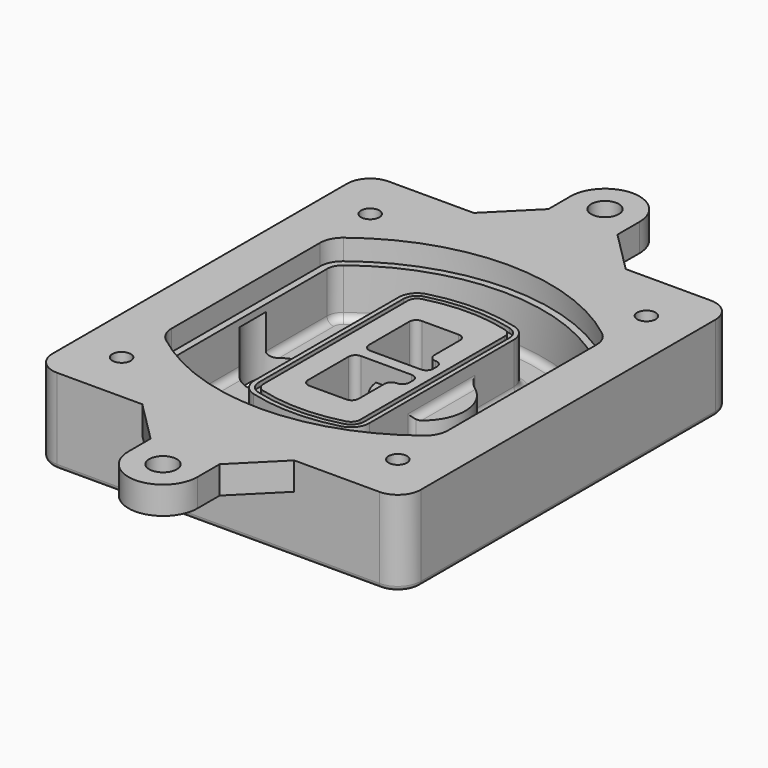
from build123d import *

# Parameters (mm, degrees)
F0_R      = 4
F1_DEPTH  = 25
F2_DEPTH  = 3
F3_DEPTH  = 18
F5_DEPTH  = 21
F6_DEPTH  = 2
F8_DEPTH  = 20
F9_DEPTH  = 16
F10_DEPTH = 25
F7_R      = 6
F7_R_2    = 4
F11_DEPTH = 6
F13_DEPTH = 9
F14_R     = 3
F15_R     = 2
F16_R     = 6
F16_R_2   = 4
F17_DEPTH = 12


with BuildPart() as f1:
    # F0 (on Top) → F1 (new body)
    with BuildSketch(Plane.XY):
        with BuildLine():
            ThreePointArc((-80, -80), (-77.0710678119, -87.0710678119), (-70, -90))
            Line((-70, -90), (70, -90))
            ThreePointArc((70, -90), (77.0710678119, -87.0710678119), (80, -80))
            Line((80, -80), (80, 80))
            ThreePointArc((80, 80), (77.0710678119, 87.0710678119), (70, 90))
            Line((70, 90), (-70, 90))
            ThreePointArc((-70, 90), (-77.0710678119, 87.0710678119), (-80, 80))
            Line((-80, 80), (-80, -80))
        make_face()
        with Locations((-60, -67.5)):
            Circle(F0_R, mode=Mode.SUBTRACT)
        with Locations((60, -67.5)):
            Circle(F0_R, mode=Mode.SUBTRACT)
        with Locations((-60, 67.5)):
            Circle(F0_R, mode=Mode.SUBTRACT)
        with BuildLine():
            ThreePointArc((-64, 40.2934422872), (-62.5820384798, 46.4328484224), (-58.6153846154, 51.3286200352))
            ThreePointArc((-58.6153846154, 51.3286200352), (0, 71.5), (58.6153846154, 51.3286200352))
            ThreePointArc((58.6153846154, 51.3286200352), (62.5820384798, 46.4328484224), (64, 40.2934422872))
            Line((64, 40.2934422872), (64, -40.2934422872))
            ThreePointArc((64, -40.2934422872), (62.5820384798, -46.4328484224), (58.6153846154, -51.3286200352))
            ThreePointArc((58.6153846154, -51.3286200352), (0, -71.5), (-58.6153846154, -51.3286200352))
            ThreePointArc((-58.6153846154, -51.3286200352), (-62.5820384798, -46.4328484224), (-64, -40.2934422872))
            Line((-64, -40.2934422872), (-64, 40.2934422872))
        make_face(mode=Mode.SUBTRACT)
        with Locations((60, 67.5)):
            Circle(F0_R, mode=Mode.SUBTRACT)
        with BuildLine():
            ThreePointArc((58.6153846154, 51.3286200352), (0, 71.5), (-58.6153846154, 51.3286200352))
            ThreePointArc((-58.6153846154, 51.3286200352), (-62.5820384798, 46.4328484224), (-64, 40.2934422872))
            Line((-64, 40.2934422872), (-64, -40.2934422872))
            ThreePointArc((-64, -40.2934422872), (-62.5820384798, -46.4328484224), (-58.6153846154, -51.3286200352))
            ThreePointArc((-58.6153846154, -51.3286200352), (0, -71.5), (58.6153846154, -51.3286200352))
            ThreePointArc((58.6153846154, -51.3286200352), (62.5820384798, -46.4328484224), (64, -40.2934422872))
            Line((64, -40.2934422872), (64, 40.2934422872))
            ThreePointArc((64, 40.2934422872), (62.5820384798, 46.4328484224), (58.6153846154, 51.3286200352))
        make_face()
        with BuildLine():
            Line((-60, -40.2934422872), (-60, 40.2934422872))
            ThreePointArc((-60, 40.2934422872), (-58.9871703427, 44.6787323838), (-56.1538461538, 48.1757121072))
            ThreePointArc((-56.1538461538, 48.1757121072), (0, 67.5), (56.1538461538, 48.1757121072))
            ThreePointArc((56.1538461538, 48.1757121072), (58.9871703427, 44.6787323838), (60, 40.2934422872))
            Line((60, 40.2934422872), (60, -40.2934422872))
            ThreePointArc((60, -40.2934422872), (58.9871703427, -44.6787323838), (56.1538461538, -48.1757121072))
            ThreePointArc((56.1538461538, -48.1757121072), (0, -67.5), (-56.1538461538, -48.1757121072))
            ThreePointArc((-56.1538461538, -48.1757121072), (-58.9871703427, -44.6787323838), (-60, -40.2934422872))
        make_face(mode=Mode.SUBTRACT)
        with BuildLine():
            ThreePointArc((-56.1538461538, 48.1757121072), (-58.9871703427, 44.6787323838), (-60, 40.2934422872))
            Line((-60, 40.2934422872), (-60, -40.2934422872))
            ThreePointArc((-60, -40.2934422872), (-58.9871703427, -44.6787323838), (-56.1538461538, -48.1757121072))
            ThreePointArc((-56.1538461538, -48.1757121072), (0, -67.5), (56.1538461538, -48.1757121072))
            ThreePointArc((56.1538461538, -48.1757121072), (58.9871703427, -44.6787323838), (60, -40.2934422872))
            Line((60, -40.2934422872), (60, 40.2934422872))
            ThreePointArc((60, 40.2934422872), (58.9871703427, 44.6787323838), (56.1538461538, 48.1757121072))
            ThreePointArc((56.1538461538, 48.1757121072), (0, 67.5), (-56.1538461538, 48.1757121072))
        make_face()
        with BuildLine():
            ThreePointArc((54.3076923077, 45.8110311612), (56.2910192399, 43.3631453548), (57, 40.2934422872))
            Line((57, 40.2934422872), (57, -40.2934422872))
            ThreePointArc((57, -40.2934422872), (56.2910192399, -43.3631453548), (54.3076923077, -45.8110311612))
            ThreePointArc((54.3076923077, -45.8110311612), (0, -64.5), (-54.3076923077, -45.8110311612))
            ThreePointArc((-54.3076923077, -45.8110311612), (-56.2910192399, -43.3631453548), (-57, -40.2934422872))
            Line((-57, -40.2934422872), (-57, 40.2934422872))
            ThreePointArc((-57, 40.2934422872), (-56.2910192399, 43.3631453548), (-54.3076923077, 45.8110311612))
            ThreePointArc((-54.3076923077, 45.8110311612), (0, 64.5), (54.3076923077, 45.8110311612))
        make_face(mode=Mode.SUBTRACT)
        with BuildLine():
            Line((57, -40.2934422872), (57, 40.2934422872))
            ThreePointArc((57, 40.2934422872), (56.2910192399, 43.3631453548), (54.3076923077, 45.8110311612))
            ThreePointArc((54.3076923077, 45.8110311612), (0, 64.5), (-54.3076923077, 45.8110311612))
            ThreePointArc((-54.3076923077, 45.8110311612), (-56.2910192399, 43.3631453548), (-57, 40.2934422872))
            Line((-57, 40.2934422872), (-57, -40.2934422872))
            ThreePointArc((-57, -40.2934422872), (-56.2910192399, -43.3631453548), (-54.3076923077, -45.8110311612))
            ThreePointArc((-54.3076923077, -45.8110311612), (0, -64.5), (54.3076923077, -45.8110311612))
            ThreePointArc((54.3076923077, -45.8110311612), (56.2910192399, -43.3631453548), (57, -40.2934422872))
        make_face()
    extrude(amount=-F1_DEPTH)

    # F0 (on Top) → F2 (join)
    with BuildSketch(Plane.XY):
        with BuildLine():
            ThreePointArc((-56.1538461538, 48.1757121072), (-58.9871703427, 44.6787323838), (-60, 40.2934422872))
            Line((-60, 40.2934422872), (-60, -40.2934422872))
            ThreePointArc((-60, -40.2934422872), (-58.9871703427, -44.6787323838), (-56.1538461538, -48.1757121072))
            ThreePointArc((-56.1538461538, -48.1757121072), (0, -67.5), (56.1538461538, -48.1757121072))
            ThreePointArc((56.1538461538, -48.1757121072), (58.9871703427, -44.6787323838), (60, -40.2934422872))
            Line((60, -40.2934422872), (60, 40.2934422872))
            ThreePointArc((60, 40.2934422872), (58.9871703427, 44.6787323838), (56.1538461538, 48.1757121072))
            ThreePointArc((56.1538461538, 48.1757121072), (0, 67.5), (-56.1538461538, 48.1757121072))
        make_face()
        with BuildLine():
            ThreePointArc((54.3076923077, 45.8110311612), (56.2910192399, 43.3631453548), (57, 40.2934422872))
            Line((57, 40.2934422872), (57, -40.2934422872))
            ThreePointArc((57, -40.2934422872), (56.2910192399, -43.3631453548), (54.3076923077, -45.8110311612))
            ThreePointArc((54.3076923077, -45.8110311612), (0, -64.5), (-54.3076923077, -45.8110311612))
            ThreePointArc((-54.3076923077, -45.8110311612), (-56.2910192399, -43.3631453548), (-57, -40.2934422872))
            Line((-57, -40.2934422872), (-57, 40.2934422872))
            ThreePointArc((-57, 40.2934422872), (-56.2910192399, 43.3631453548), (-54.3076923077, 45.8110311612))
            ThreePointArc((-54.3076923077, 45.8110311612), (0, 64.5), (54.3076923077, 45.8110311612))
        make_face(mode=Mode.SUBTRACT)
    extrude(amount=F2_DEPTH)

    # F0 (on Top) → F3 (cut)
    with BuildSketch(Plane.XY):
        with BuildLine():
            Line((57, -40.2934422872), (57, 40.2934422872))
            ThreePointArc((57, 40.2934422872), (56.2910192399, 43.3631453548), (54.3076923077, 45.8110311612))
            ThreePointArc((54.3076923077, 45.8110311612), (0, 64.5), (-54.3076923077, 45.8110311612))
            ThreePointArc((-54.3076923077, 45.8110311612), (-56.2910192399, 43.3631453548), (-57, 40.2934422872))
            Line((-57, 40.2934422872), (-57, -40.2934422872))
            ThreePointArc((-57, -40.2934422872), (-56.2910192399, -43.3631453548), (-54.3076923077, -45.8110311612))
            ThreePointArc((-54.3076923077, -45.8110311612), (0, -64.5), (54.3076923077, -45.8110311612))
            ThreePointArc((54.3076923077, -45.8110311612), (56.2910192399, -43.3631453548), (57, -40.2934422872))
        make_face()
    extrude(amount=-F3_DEPTH, mode=Mode.SUBTRACT)

    # F4 (on face) → F5 (join, through all)
    with BuildSketch(Plane.XY.offset(3)):
        with BuildLine():
            ThreePointArc((-25, -39.2465276821), (-23.3511545998, -44.1109737193), (-19.0842911877, -46.9702398883))
            ThreePointArc((-19.0842911877, -46.9702398883), (0, -49.5), (19.0842911877, -46.9702398883))
            ThreePointArc((19.0842911877, -46.9702398883), (23.3511545998, -44.1109737193), (25, -39.2465276821))
            Line((25, -39.2465276821), (25, 39.2465276821))
            ThreePointArc((25, 39.2465276821), (23.3511545998, 44.1109737193), (19.0842911877, 46.9702398883))
            ThreePointArc((19.0842911877, 46.9702398883), (0, 49.5), (-19.0842911877, 46.9702398883))
            ThreePointArc((-19.0842911877, 46.9702398883), (-23.3511545998, 44.1109737193), (-25, 39.2465276821))
            Line((-25, 39.2465276821), (-25, -39.2465276821))
        make_face()
        with BuildLine():
            ThreePointArc((18.5632183908, 45.0393118368), (21.7633659499, 42.89486221), (23, 39.2465276821))
            Line((23, 39.2465276821), (23, -39.2465276821))
            ThreePointArc((23, -39.2465276821), (21.7633659499, -42.89486221), (18.5632183908, -45.0393118368))
            ThreePointArc((18.5632183908, -45.0393118368), (0, -47.5), (-18.5632183908, -45.0393118368))
            ThreePointArc((-18.5632183908, -45.0393118368), (-21.7633659499, -42.89486221), (-23, -39.2465276821))
            Line((-23, -39.2465276821), (-23, 39.2465276821))
            ThreePointArc((-23, 39.2465276821), (-21.7633659499, 42.89486221), (-18.5632183908, 45.0393118368))
            ThreePointArc((-18.5632183908, 45.0393118368), (0, 47.5), (18.5632183908, 45.0393118368))
        make_face(mode=Mode.SUBTRACT)
        with BuildLine():
            Line((23, -39.2465276821), (23, 39.2465276821))
            ThreePointArc((23, 39.2465276821), (21.7633659499, 42.89486221), (18.5632183908, 45.0393118368))
            ThreePointArc((18.5632183908, 45.0393118368), (0, 47.5), (-18.5632183908, 45.0393118368))
            ThreePointArc((-18.5632183908, 45.0393118368), (-21.7633659499, 42.89486221), (-23, 39.2465276821))
            Line((-23, 39.2465276821), (-23, -39.2465276821))
            ThreePointArc((-23, -39.2465276821), (-21.7633659499, -42.89486221), (-18.5632183908, -45.0393118368))
            ThreePointArc((-18.5632183908, -45.0393118368), (0, -47.5), (18.5632183908, -45.0393118368))
            ThreePointArc((18.5632183908, -45.0393118368), (21.7633659499, -42.89486221), (23, -39.2465276821))
        make_face()
        with BuildLine():
            ThreePointArc((18.0421455939, 43.1083837852), (20.1755772999, 41.6787507007), (21, 39.2465276821))
            Line((21, 39.2465276821), (21, -39.2465276821))
            ThreePointArc((21, -39.2465276821), (20.1755772999, -41.6787507007), (18.0421455939, -43.1083837852))
            ThreePointArc((18.0421455939, -43.1083837852), (0, -45.5), (-18.0421455939, -43.1083837852))
            ThreePointArc((-18.0421455939, -43.1083837852), (-20.1755772999, -41.6787507007), (-21, -39.2465276821))
            Line((-21, -39.2465276821), (-21, 39.2465276821))
            ThreePointArc((-21, 39.2465276821), (-20.1755772999, 41.6787507007), (-18.0421455939, 43.1083837852))
            ThreePointArc((-18.0421455939, 43.1083837852), (0, 45.5), (18.0421455939, 43.1083837852))
        make_face(mode=Mode.SUBTRACT)
        with BuildLine():
            Line((21, -39.2465276821), (21, 39.2465276821))
            ThreePointArc((21, 39.2465276821), (20.1755772999, 41.6787507007), (18.0421455939, 43.1083837852))
            ThreePointArc((18.0421455939, 43.1083837852), (0, 45.5), (-18.0421455939, 43.1083837852))
            ThreePointArc((-18.0421455939, 43.1083837852), (-20.1755772999, 41.6787507007), (-21, 39.2465276821))
            Line((-21, 39.2465276821), (-21, -39.2465276821))
            ThreePointArc((-21, -39.2465276821), (-20.1755772999, -41.6787507007), (-18.0421455939, -43.1083837852))
            ThreePointArc((-18.0421455939, -43.1083837852), (0, -45.5), (18.0421455939, -43.1083837852))
            ThreePointArc((18.0421455939, -43.1083837852), (20.1755772999, -41.6787507007), (21, -39.2465276821))
        make_face()
        with BuildLine():
            Line((-8, -2.5), (14, -2.5))
            ThreePointArc((14, -2.5), (16.1213203436, -3.3786796564), (17, -5.5))
            Line((17, -5.5), (17, -7.5))
            ThreePointArc((17, -7.5), (16.1213203436, -9.6213203436), (14, -10.5))
            ThreePointArc((14, -10.5), (11.8786796564, -11.3786796564), (11, -13.5))
            Line((11, -13.5), (11, -27.5))
            ThreePointArc((11, -27.5), (10.1213203436, -29.6213203436), (8, -30.5))
            Line((8, -30.5), (-8, -30.5))
            ThreePointArc((-8, -30.5), (-10.1213203436, -29.6213203436), (-11, -27.5))
            Line((-11, -27.5), (-11, -5.5))
            ThreePointArc((-11, -5.5), (-10.1213203436, -3.3786796564), (-8, -2.5))
        make_face(mode=Mode.SUBTRACT)
        with BuildLine():
            ThreePointArc((-8, 2.5), (-10.1213203436, 3.3786796564), (-11, 5.5))
            Line((-11, 5.5), (-11, 27.5))
            ThreePointArc((-11, 27.5), (-10.1213203436, 29.6213203436), (-8, 30.5))
            Line((-8, 30.5), (8, 30.5))
            ThreePointArc((8, 30.5), (10.1213203436, 29.6213203436), (11, 27.5))
            Line((11, 27.5), (11, 13.5))
            ThreePointArc((11, 13.5), (11.8786796564, 11.3786796564), (14, 10.5))
            ThreePointArc((14, 10.5), (16.1213203436, 9.6213203436), (17, 7.5))
            Line((17, 7.5), (17, 5.5))
            ThreePointArc((17, 5.5), (16.1213203436, 3.3786796564), (14, 2.5))
            Line((14, 2.5), (-8, 2.5))
        make_face(mode=Mode.SUBTRACT)
    extrude(amount=-F5_DEPTH)

    # F4 (on face) → F6 (cut)
    with BuildSketch(Plane.XY.offset(3)):
        with BuildLine():
            Line((23, -39.2465276821), (23, 39.2465276821))
            ThreePointArc((23, 39.2465276821), (21.7633659499, 42.89486221), (18.5632183908, 45.0393118368))
            ThreePointArc((18.5632183908, 45.0393118368), (0, 47.5), (-18.5632183908, 45.0393118368))
            ThreePointArc((-18.5632183908, 45.0393118368), (-21.7633659499, 42.89486221), (-23, 39.2465276821))
            Line((-23, 39.2465276821), (-23, -39.2465276821))
            ThreePointArc((-23, -39.2465276821), (-21.7633659499, -42.89486221), (-18.5632183908, -45.0393118368))
            ThreePointArc((-18.5632183908, -45.0393118368), (0, -47.5), (18.5632183908, -45.0393118368))
            ThreePointArc((18.5632183908, -45.0393118368), (21.7633659499, -42.89486221), (23, -39.2465276821))
        make_face()
        with BuildLine():
            ThreePointArc((18.0421455939, 43.1083837852), (20.1755772999, 41.6787507007), (21, 39.2465276821))
            Line((21, 39.2465276821), (21, -39.2465276821))
            ThreePointArc((21, -39.2465276821), (20.1755772999, -41.6787507007), (18.0421455939, -43.1083837852))
            ThreePointArc((18.0421455939, -43.1083837852), (0, -45.5), (-18.0421455939, -43.1083837852))
            ThreePointArc((-18.0421455939, -43.1083837852), (-20.1755772999, -41.6787507007), (-21, -39.2465276821))
            Line((-21, -39.2465276821), (-21, 39.2465276821))
            ThreePointArc((-21, 39.2465276821), (-20.1755772999, 41.6787507007), (-18.0421455939, 43.1083837852))
            ThreePointArc((-18.0421455939, 43.1083837852), (0, 45.5), (18.0421455939, 43.1083837852))
        make_face(mode=Mode.SUBTRACT)
    extrude(amount=-F6_DEPTH, mode=Mode.SUBTRACT)

    # F7 (on face) → F8 (join)
    with BuildSketch(Plane(origin=(0, 0, -25), x_dir=(1, 0, 0), z_dir=(0, 0, -1))):
        with BuildLine():
            ThreePointArc((3.28842436, 0), (16.7567035675, 13.4682792075), (30.224982775, 0))
            Line((30.224982775, 0), (35.224982775, 0))
            ThreePointArc((35.224982775, 0), (16.7567035675, 18.4682792075), (-1.71157564, 0))
            Line((-1.71157564, 0), (3.28842436, 0))
        make_face()
        with BuildLine():
            Line((3.28842436, 0), (30.224982775, 0))
            ThreePointArc((30.224982775, 0), (16.7567035675, 13.4682792075), (3.28842436, 0))
        make_face()
        with BuildLine():
            ThreePointArc((3.28842436, 0), (16.7567035675, -13.4682792075), (30.224982775, 0))
            Line((30.224982775, 0), (3.28842436, 0))
        make_face()
        with BuildLine():
            Line((35.224982775, 0), (30.224982775, 0))
            ThreePointArc((30.224982775, 0), (16.7567035675, -13.4682792075), (3.28842436, 0))
            Line((3.28842436, 0), (-1.71157564, 0))
            ThreePointArc((-1.71157564, 0), (16.7567035675, -18.4682792075), (35.224982775, 0))
        make_face()
    extrude(amount=-F8_DEPTH)

    # F7 (on face) → F9 (cut)
    with BuildSketch(Plane(origin=(0, 0, -25), x_dir=(1, 0, 0), z_dir=(0, 0, -1))):
        with BuildLine():
            Line((3.28842436, 0), (30.224982775, 0))
            ThreePointArc((30.224982775, 0), (16.7567035675, 13.4682792075), (3.28842436, 0))
        make_face()
        with BuildLine():
            ThreePointArc((3.28842436, 0), (16.7567035675, -13.4682792075), (30.224982775, 0))
            Line((30.224982775, 0), (3.28842436, 0))
        make_face()
    extrude(amount=-F9_DEPTH, mode=Mode.SUBTRACT)

    # F7 (on face) → F10 (cut)
    with BuildSketch(Plane(origin=(0, 0, -25), x_dir=(1, 0, 0), z_dir=(0, 0, -1))):
        with BuildLine():
            Line((-59.0318229325, 0), (-32.0952645175, 0))
            ThreePointArc((-32.0952645175, 0), (-45.563543725, 13.4682792075), (-59.0318229325, 0))
        make_face()
        with BuildLine():
            ThreePointArc((-59.0318229325, 0), (-45.563543725, -13.4682792075), (-32.0952645175, 0))
            Line((-32.0952645175, 0), (-59.0318229325, 0))
        make_face()
    extrude(amount=-F10_DEPTH, mode=Mode.SUBTRACT)

    # F7 (on face) → F11 (cut)
    with BuildSketch(Plane(origin=(0, 0, -25), x_dir=(1, 0, 0), z_dir=(0, 0, -1))):
        with Locations((60, -67.5)):
            Circle(F7_R)
        with Locations((60, -67.5)):
            Circle(F7_R_2, mode=Mode.SUBTRACT)
        with Locations((60, -67.5)):
            Circle(F7_R)
        with Locations((60, -67.5)):
            Circle(F7_R_2, mode=Mode.SUBTRACT)
        with Locations((-60, -67.5)):
            Circle(F7_R)
        with Locations((-60, -67.5)):
            Circle(F7_R_2, mode=Mode.SUBTRACT)
        with Locations((-60, -67.5)):
            Circle(F7_R)
        with Locations((-60, -67.5)):
            Circle(F7_R_2, mode=Mode.SUBTRACT)
        with Locations((-60, 67.5)):
            Circle(F7_R)
        with Locations((-60, 67.5)):
            Circle(F7_R_2, mode=Mode.SUBTRACT)
        with Locations((-60, 67.5)):
            Circle(F7_R)
        with Locations((-60, 67.5)):
            Circle(F7_R_2, mode=Mode.SUBTRACT)
        with Locations((60, 67.5)):
            Circle(F7_R)
        with Locations((60, 67.5)):
            Circle(F7_R_2, mode=Mode.SUBTRACT)
        with Locations((60, 67.5)):
            Circle(F7_R)
        with Locations((60, 67.5)):
            Circle(F7_R_2, mode=Mode.SUBTRACT)
    extrude(amount=-F11_DEPTH, mode=Mode.SUBTRACT)

    # F12 (on face) → F13 (cut, through all)
    with BuildSketch(Plane(origin=(0, 0, -9), x_dir=(1, 0, 0), z_dir=(0, 0, -1))):
        with BuildLine():
            Line((11, 13.5), (11, 17.5481537753))
            ThreePointArc((11, 17.5481537753), (2.5696536419, 11.8239143813), (-1.5415842455, 2.5))
            Line((-1.5415842455, 2.5), (3.5224848595, 2.5))
            ThreePointArc((3.5224848595, 2.5), (6.1857188154, 8.3455872281), (11.2536447004, 12.2927168648))
            ThreePointArc((11.2536447004, 12.2927168648), (11.0640958889, 12.8831798879), (11, 13.5))
        make_face()
        with BuildLine():
            ThreePointArc((11.2536447004, -12.2927168648), (6.1857188154, -8.3455872281), (3.5224848595, -2.5))
            Line((3.5224848595, -2.5), (-1.5415842455, -2.5))
            ThreePointArc((-1.5415842455, -2.5), (2.5696536419, -11.8239143813), (11, -17.5481537753))
            Line((11, -17.5481537753), (11, -13.5))
            ThreePointArc((11, -13.5), (11.0640958889, -12.8831798879), (11.2536447004, -12.2927168648))
        make_face()
        with BuildLine():
            ThreePointArc((11.2536447004, 12.2927168648), (6.1857188154, 8.3455872281), (3.5224848595, 2.5))
            Line((3.5224848595, 2.5), (14, 2.5))
            ThreePointArc((14, 2.5), (16.1213203436, 3.3786796564), (17, 5.5))
            Line((17, 5.5), (17, 7.5))
            ThreePointArc((17, 7.5), (16.1213203436, 9.6213203436), (14, 10.5))
            ThreePointArc((14, 10.5), (12.3601599782, 10.9878446101), (11.2536447004, 12.2927168648))
        make_face()
        with BuildLine():
            Line((14, -2.5), (3.5224848595, -2.5))
            ThreePointArc((3.5224848595, -2.5), (6.1857188154, -8.3455872281), (11.2536447004, -12.2927168648))
            ThreePointArc((11.2536447004, -12.2927168648), (12.3601599782, -10.9878446101), (14, -10.5))
            ThreePointArc((14, -10.5), (16.1213203436, -9.6213203436), (17, -7.5))
            Line((17, -7.5), (17, -5.5))
            ThreePointArc((17, -5.5), (16.1213203436, -3.3786796564), (14, -2.5))
        make_face()
    extrude(amount=F13_DEPTH, mode=Mode.SUBTRACT)

    # F14
    f14_edges = [f1.edges().sort_by_distance(p)[0] for p in [
        (-57, -23.703476, -18),
        (-57, 23.703476, -18),
        (25, 0, -5),
        (25, 16.526506, -11.5),
        (25, -16.526506, -11.5),
        (25, -27.886517, -18),
        (35.224983, 0, -18),
    ]]
    fillet(f14_edges, radius=F14_R)

    # F15
    f15_edges = [f1.edges().sort_by_distance(p)[0] for p in [
        (0, -90, -25),
    ]]
    fillet(f15_edges, radius=F15_R)

    # F16 (on face) → F17 (join)
    with BuildSketch(Plane.XY):
        with BuildLine():
            Line((15, 108), (15, 120))
            ThreePointArc((15, 120), (0, 135), (-15, 120))
            Line((-15, 120), (-15, 108))
            Line((-15, 108), (-33, 90))
            Line((-33, 90), (33, 90))
            Line((33, 90), (15, 108))
        make_face()
        with Locations((0, 120)):
            Circle(F16_R, mode=Mode.SUBTRACT)
        with BuildLine():
            Line((70, 90), (33, 90))
            Line((33, 90), (-33, 90))
            Line((-33, 90), (-70, 90))
            ThreePointArc((-70, 90), (-77.0710678119, 87.0710678119), (-80, 80))
            Line((-80, 80), (-80, -80))
            ThreePointArc((-80, -80), (-77.0710678119, -87.0710678119), (-70, -90))
            Line((-70, -90), (-33, -90))
            Line((-33, -90), (33, -90))
            Line((33, -90), (70, -90))
            ThreePointArc((70, -90), (77.0710678119, -87.0710678119), (80, -80))
            Line((80, -80), (80, 80))
            ThreePointArc((80, 80), (77.0710678119, 87.0710678119), (70, 90))
        make_face()
        with Locations((-60, -67.5)):
            Circle(F16_R_2, mode=Mode.SUBTRACT)
        with Locations((60, -67.5)):
            Circle(F16_R_2, mode=Mode.SUBTRACT)
        with Locations((-60, 67.5)):
            Circle(F16_R_2, mode=Mode.SUBTRACT)
        with BuildLine():
            ThreePointArc((-60, 40.2934422872), (-58.9871703427, 44.6787323838), (-56.1538461538, 48.1757121072))
            ThreePointArc((-56.1538461538, 48.1757121072), (0, 67.5), (56.1538461538, 48.1757121072))
            ThreePointArc((56.1538461538, 48.1757121072), (58.9871703427, 44.6787323838), (60, 40.2934422872))
            Line((60, 40.2934422872), (60, -40.2934422872))
            ThreePointArc((60, -40.2934422872), (58.9871703427, -44.6787323838), (56.1538461538, -48.1757121072))
            ThreePointArc((56.1538461538, -48.1757121072), (0, -67.5), (-56.1538461538, -48.1757121072))
            ThreePointArc((-56.1538461538, -48.1757121072), (-58.9871703427, -44.6787323838), (-60, -40.2934422872))
            Line((-60, -40.2934422872), (-60, 40.2934422872))
        make_face(mode=Mode.SUBTRACT)
        with Locations((60, 67.5)):
            Circle(F16_R_2, mode=Mode.SUBTRACT)
        with BuildLine():
            Line((15, -108), (33, -90))
            Line((33, -90), (-33, -90))
            Line((-33, -90), (-15, -108))
            Line((-15, -108), (-15, -120))
            ThreePointArc((-15, -120), (0, -135), (15, -120))
            Line((15, -120), (15, -108))
        make_face()
        with Locations((0, -120)):
            Circle(F16_R, mode=Mode.SUBTRACT)
    extrude(amount=F17_DEPTH)


solid = f1.part
